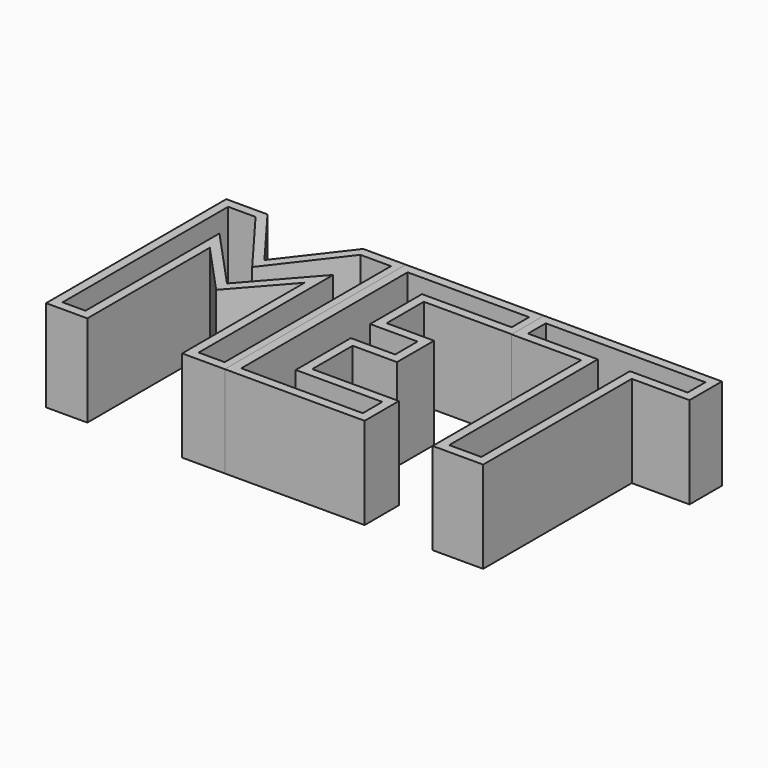
from build123d import *

# Parameters (mm, degrees)
F3_DEPTH = 25.4
F2_W     = 13.9767900109
F2_H     = 51.3929091394
F4_T     = -2.54
F4_2_T   = -2.54
F4_3_T   = -2.54


with BuildPart() as f3:
    # F0 (on Top) → F3 (new body)
    with BuildSketch(Plane.XY):
        Polygon((-45.3532636166, 45.2106446028), (-58.1890903413, 62.325078994), (-58.1890903413, 42.35823825), (-44.7827801108, 27.8109628707), (-31.9469533861, 42.35823825), (-31.9469533861, 62.6103207469), align=None)
        Polygon((-19.6816045791, 62.6103207469), (-31.9469533861, 62.6103207469), (-31.9469533861, 42.35823825), (-31.9469533861, 0), (-19.6816045791, 0), align=None)
        Polygon((-58.1890903413, 62.325078994), (-69.5987194777, 62.325078994), (-69.5987194777, 0), (-58.1890903413, 0), (-58.1890903413, 42.35823825), align=None)
    extrude(amount=F3_DEPTH)

    # F4
    f4_openings = [f3.faces().sort_by_distance(p)[0] for p in [
        (-44.330156, 34.586922, 25.4),
    ]]
    offset(amount=F4_T, openings=f4_openings, kind=Kind.INTERSECTION)


with BuildPart() as f3b:
    # F1 (on Top) → F3, piece 2 (new body)
    with BuildSketch(Plane.XY):
        Polygon((18.5406412929, 62.6103207469), (-20.1590619981, 62.6103207469), (-20.1590619981, 0), (18.5406412929, 0), (18.5406412929, 11.8374861777), (-5.4195728153, 11.8374861777), (-5.4195728153, 25.8142780513), (6.8457750604, 25.8142780513), (6.8457750604, 38.6501066387), (-6.2752948143, 38.6501066387), (-6.2752948143, 41.7877547443), (-6.2752948143, 51.4859370887), (18.5406412929, 51.4859370887), align=None)
    extrude(amount=F3_DEPTH)

    # F4#2
    f4_2_openings = [f3b.faces().sort_by_distance(p)[0] for p in [
        (-4.950166, 31.092782, 25.4),
    ]]
    offset(amount=F4_2_T, openings=f4_2_openings, kind=Kind.INTERSECTION)


with BuildPart() as f3c:
    # F2 (on Top) → F3, piece 3 (new body)
    with BuildSketch(Plane.XY):
        Polygon((67.3167929053, 62.6103207469), (18.0631857365, 62.6103207469), (18.0631857365, 51.3929091394), (37.3665243387, 51.3929091394), (51.3433143497, 51.3929091394), (67.3167929053, 51.3929091394), align=None)
        with Locations((44.3549193442, 25.6964545697)):
            Rectangle(F2_W, F2_H)
    extrude(amount=F3_DEPTH)

    # F4#3
    f4_3_openings = [f3c.faces().sort_by_distance(p)[0] for p in [
        (43.631071, 39.306746, 25.4),
    ]]
    offset(amount=F4_3_T, openings=f4_3_openings, kind=Kind.INTERSECTION)


solid = Compound([f3.part, f3b.part, f3c.part])
